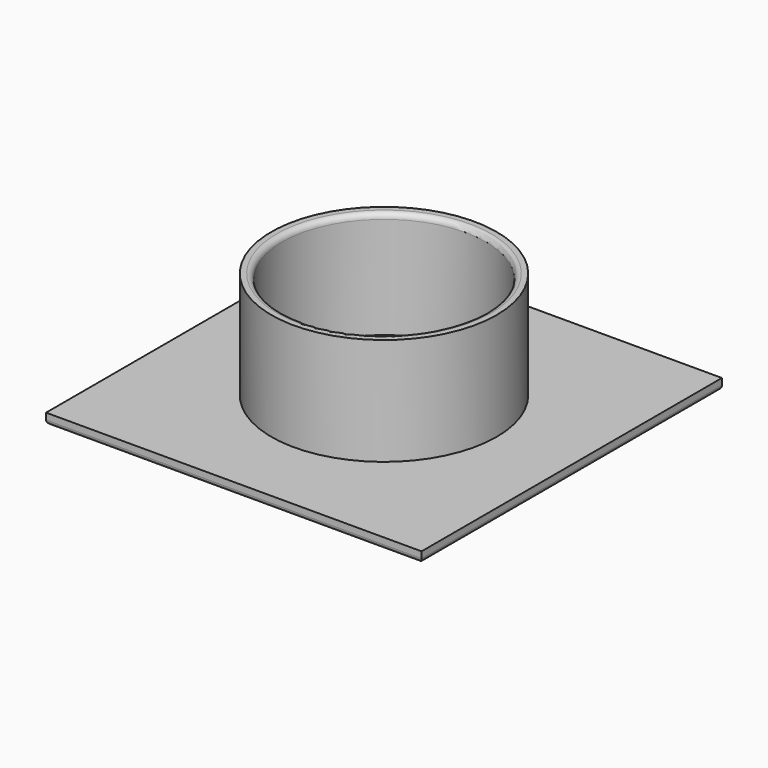
from build123d import *

# Parameters (mm, degrees)
F0_R     = 10.5
F0_R_2   = 9.5
F1_DEPTH = 10
F0_W     = 35
F0_H     = 35
F2_DEPTH = 1
F3_R     = 0.4
F4_R     = 0.5


with BuildPart() as f1:
    # F0 (on Top) → F1 (new body)
    with BuildSketch(Plane.XY):
        Circle(F0_R)
        Circle(F0_R_2, mode=Mode.SUBTRACT)
    extrude(amount=F1_DEPTH)

    # F0 (on Top) → F2 (join)
    with BuildSketch(Plane.XY):
        Rectangle(F0_W, F0_H)
        Circle(F0_R, mode=Mode.SUBTRACT)
        Circle(F0_R)
        Circle(F0_R_2, mode=Mode.SUBTRACT)
        Circle(F0_R_2)
    extrude(amount=-F2_DEPTH)

    # F3
    f3_edges = [f1.edges().sort_by_distance(p)[0] for p in [
        (-17.5, 0, -1),
        (0, 17.5, -1),
        (17.5, 0, -1),
        (0, -17.5, -1),
    ]]
    fillet(f3_edges, radius=F3_R)

    # F4
    f4_edges = [f1.edges().sort_by_distance(p)[0] for p in [
        (-9.5, 0, 10),
    ]]
    fillet(f4_edges, radius=F4_R)


solid = f1.part
